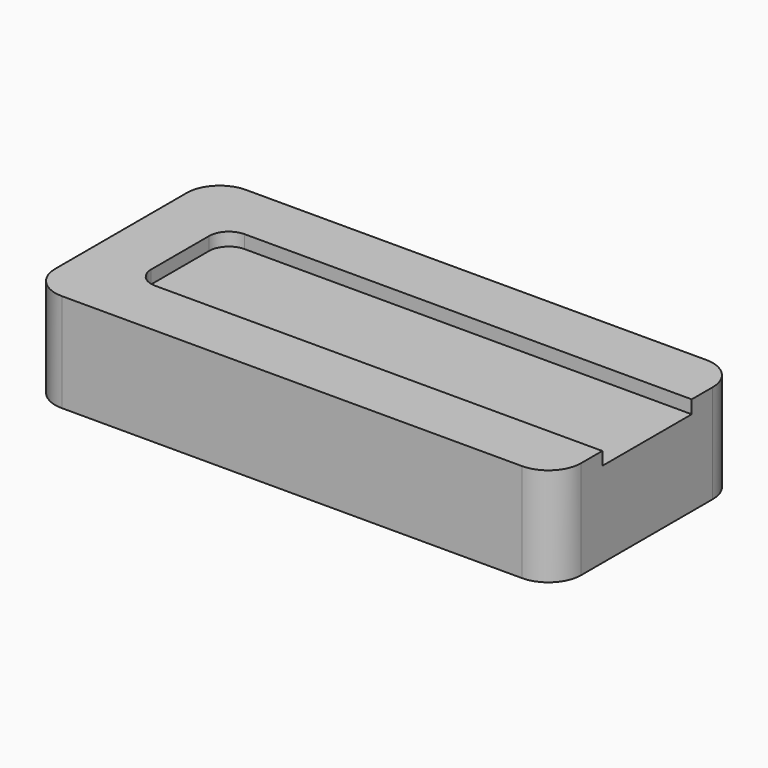
from build123d import *

# Parameters (mm, degrees)
F0_W     = 80
F0_H     = 35
F1_DEPTH = 15
F2_R     = 5
F4_DEPTH = 2


with BuildPart() as f1:
    # F0 (on Top) → F1 (new body)
    with BuildSketch(Plane.XY):
        with Locations((40, 17.5)):
            Rectangle(F0_W, F0_H)
    extrude(amount=F1_DEPTH)

    # F2
    f2_edges = [f1.edges().sort_by_distance(p)[0] for p in [
        (0, 0, 7.5),
        (80, 0, 7.5),
        (80, 35, 7.5),
        (0, 35, 7.5),
    ]]
    fillet(f2_edges, radius=F2_R)

    # F3 (on face) → F4 (cut)
    with BuildSketch(Plane.XY.offset(15)):
        with BuildLine():
            Line((80, 26), (12, 26))
            ThreePointArc((12, 26), (9.87868, 25.12132), (9, 23))
            Line((9, 23), (9, 12))
            ThreePointArc((9, 12), (9.87868, 9.87868), (12, 9))
            Line((12, 9), (80, 9))
            Line((80, 9), (80, 26))
        make_face()
    extrude(amount=-F4_DEPTH, mode=Mode.SUBTRACT)


solid = f1.part
